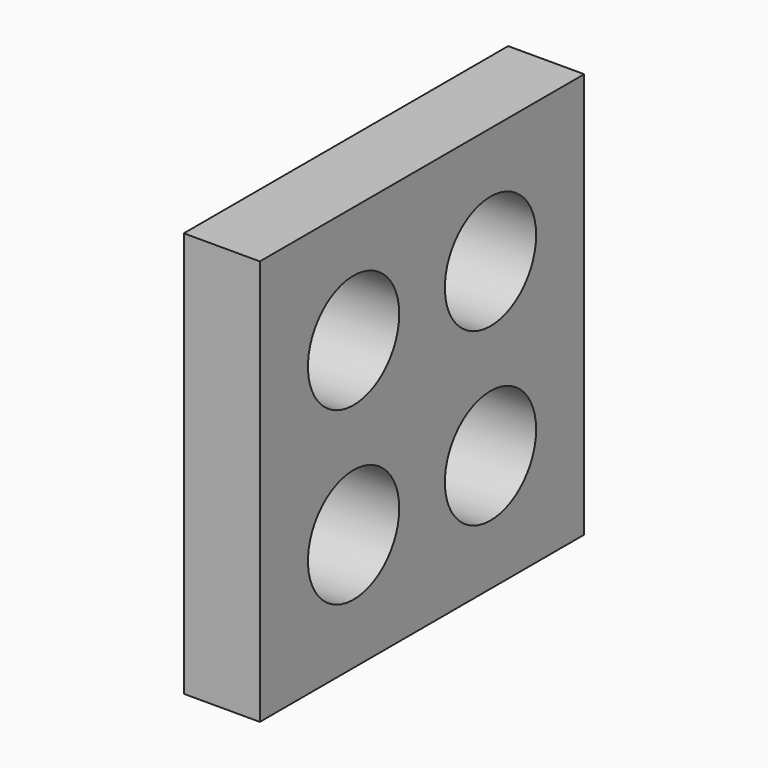
from build123d import *

# Parameters (mm, degrees)
F0_R     = 7.5
F1_DEPTH = 10


with BuildPart() as f1:
    # F0 (on Right) → F1 (new body)
    with BuildSketch(Plane.YZ):
        Polygon((22.5, 37.9), (0, 37.9), (-15.4, 37.9), (-15.4, 15), (-15.4, 7.5), (-15.4, -15.4), (0, -15.4), (22.5, -15.4), (37.9, -15.4), (37.9, 0), (37.9, 22.5), (37.9, 37.9), align=None)
        Circle(F0_R, mode=Mode.SUBTRACT)
        with Locations((22.5, 0)):
            Circle(F0_R, mode=Mode.SUBTRACT)
        with Locations((0, 22.5)):
            Circle(F0_R, mode=Mode.SUBTRACT)
        with Locations((22.5, 22.5)):
            Circle(F0_R, mode=Mode.SUBTRACT)
    extrude(amount=-F1_DEPTH)


solid = f1.part
